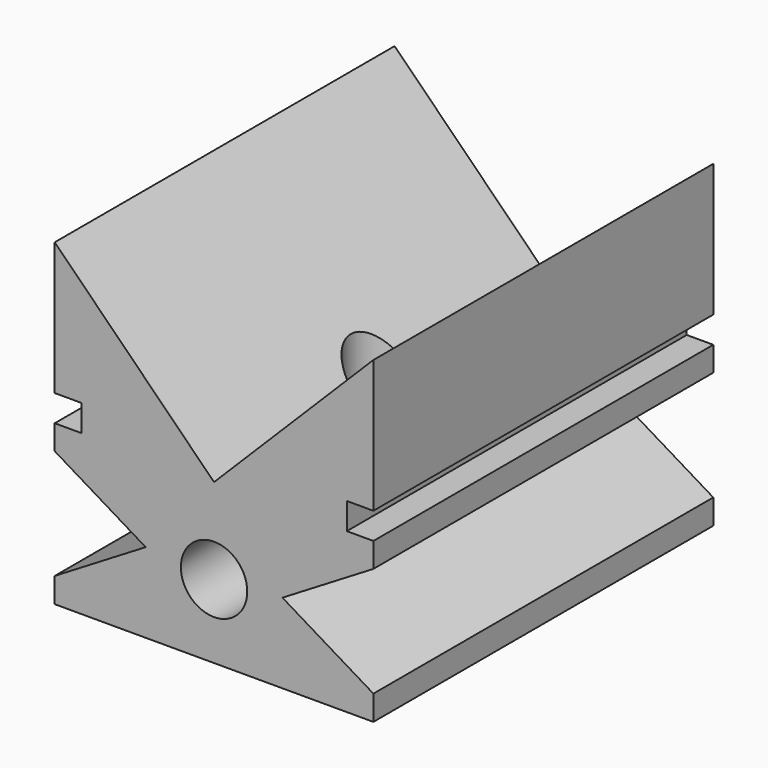
from build123d import *

# Parameters (mm, degrees)
F0_R     = 7.9375
F1_DEPTH = 50.8
F2_R     = 7.9375
F3_DEPTH = 50.8


with BuildPart() as f1:
    # F0 (on Front) → F1 (new body, symmetric)
    with BuildSketch(Plane.XZ):
        Polygon((-38.1, -32.143515), (-38.1, -38.1), (38.1, -38.1), (38.1, -32.143515), (16.356649, -19.013904), (38.1, -5.884292), (38.1, 0), (31.75, 0), (31.75, 6.35), (38.1, 6.35), (38.1, 38.1), (0, 0), (-38.1, 38.1), (-38.1, 6.35), (-31.75, 6.35), (-31.75, 0), (-38.1, 0), (-38.1, -5.884292), (-16.356649, -19.013904), align=None)
        with Locations((0, -20.482006)):
            Circle(F0_R, mode=Mode.SUBTRACT)
    extrude(amount=F1_DEPTH, both=True)

    # F2 (on Top) → F3 (cut, symmetric)
    with BuildSketch(Plane.XY):
        Circle(F2_R)
    extrude(amount=F3_DEPTH, both=True, mode=Mode.SUBTRACT)


solid = f1.part
